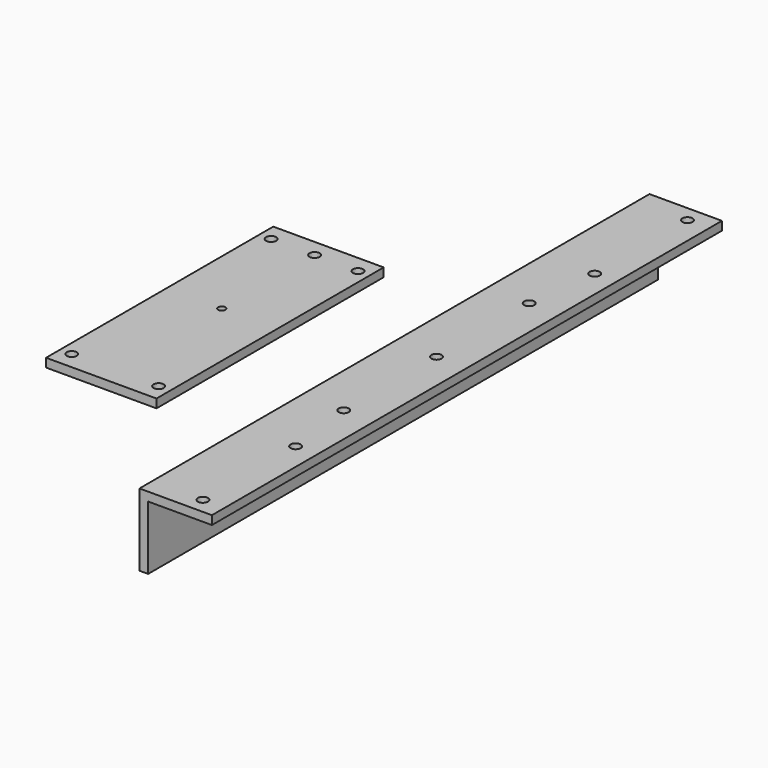
from build123d import *

# Parameters (mm, degrees)
F1_DEPTH = 110
F2_R     = 1.75
F3_DEPTH = 3.001
F4_W     = 38.1
F4_H     = 98
F5_DEPTH = 3
F6_R     = 1.75
F7_DEPTH = 6.001
F8_R     = 1.75
F8_R_2   = 1.25
F9_DEPTH = 28.001


with BuildPart() as f1:
    # F0 (on Front) → F1 (new body, symmetric)
    with BuildSketch(Plane.XZ):
        Polygon((25, 0), (0, 0), (0, -25), (3, -25), (3, -3), (25, -3), align=None)
    extrude(amount=F1_DEPTH, both=True)

    # F2 (on face) → F3 (cut, through all)
    with BuildSketch(Plane(origin=(0, 0, -3), x_dir=(1, 0, 0), z_dir=(0, 0, -1))):
        with Locations((17.5, 104.5)):
            Circle(F2_R)
        with Locations((17.5, -104.5)):
            Circle(F2_R)
        with Locations((17.5, 64.5)):
            Circle(F2_R)
        with Locations((17.5, -64.5)):
            Circle(F2_R)
    extrude(amount=-F3_DEPTH, mode=Mode.SUBTRACT)

    # F6 (on face) → F7 (cut, through all)
    with BuildSketch(Plane(origin=(0, 0, -3), x_dir=(1, 0, 0), z_dir=(0, 0, -1))):
        with Locations((14.5, 40)):
            Circle(F6_R)
        with Locations((14.5, 0)):
            Circle(F6_R)
        with Locations((14.5, -40)):
            Circle(F6_R)
    extrude(amount=-F7_DEPTH, mode=Mode.SUBTRACT)


with BuildPart() as f5:
    # F4 (on Top) → F5 (new body)
    with BuildSketch(Plane.XY):
        with Locations((-44.648656, -21.658122)):
            Rectangle(F4_W, F4_H)
    extrude(amount=F5_DEPTH)

    # F8 (on face) → F9 (cut, through all)
    with BuildSketch(Plane.XY.offset(3)):
        with Locations((-59.648656, 21.341878)):
            Circle(F8_R)
        with Locations((-29.648656, 21.341878)):
            Circle(F8_R)
        with Locations((-59.648656, -64.658122)):
            Circle(F8_R)
        with Locations((-29.648656, -64.658122)):
            Circle(F8_R)
        with Locations((-44.648656, 21.341878)):
            Circle(F8_R)
        with Locations((-44.648656, -18.658122)):
            Circle(F8_R_2)
    extrude(amount=-F9_DEPTH, mode=Mode.SUBTRACT)


solid = Compound([f1.part, f5.part])
